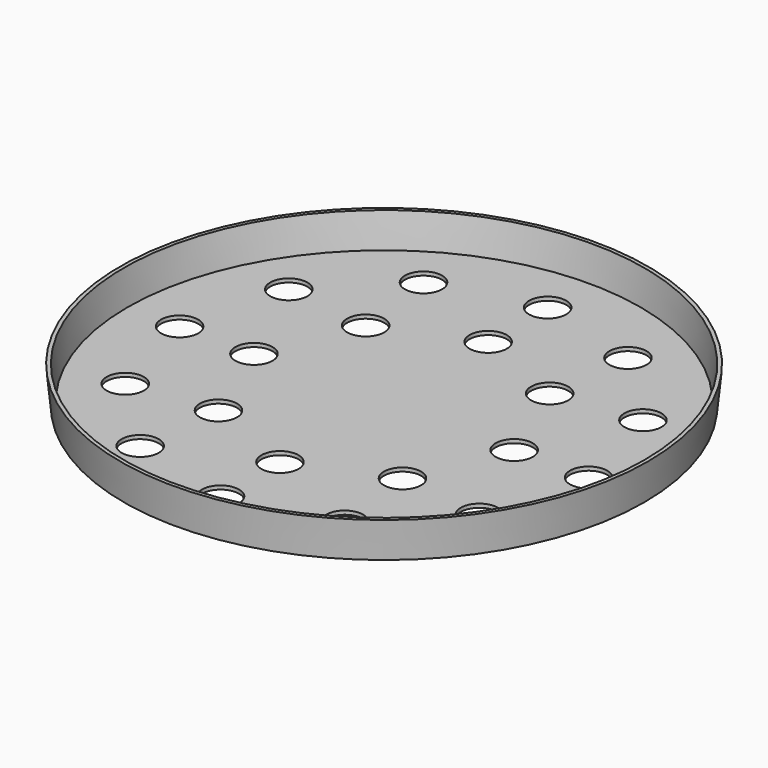
from build123d import *

# Parameters (mm, degrees)
SKETCH008_R      = 5
EXTRUDE002_DEPTH = 10


with BuildPart() as extrude002:
    # Sketch008 (on Face5 of Cut002) → Extrude002 (new body)
    with BuildSketch(Plane.XY.offset(1)):
        with Locations((35, 0)):
            Circle(SKETCH008_R)
        with Locations((0, 35)):
            Circle(SKETCH008_R)
        with Locations((-35, 0)):
            Circle(SKETCH008_R)
        with Locations((0, -35)):
            Circle(SKETCH008_R)
        with Locations((0, 55)):
            Circle(SKETCH008_R)
        with Locations((55, 0)):
            Circle(SKETCH008_R)
        with Locations((0, -55)):
            Circle(SKETCH008_R)
        with Locations((-55, 0)):
            Circle(SKETCH008_R)
        with Locations((-24.748737, 24.748737)):
            Circle(SKETCH008_R)
        with Locations((-24.748737, -24.748737)):
            Circle(SKETCH008_R)
        with Locations((24.748737, -24.748737)):
            Circle(SKETCH008_R)
        with Locations((24.748737, 24.748737)):
            Circle(SKETCH008_R)
        with Locations((-47.631397, 27.5)):
            Circle(SKETCH008_R)
        with Locations((-27.5, 47.631397)):
            Circle(SKETCH008_R)
        with Locations((27.5, 47.631397)):
            Circle(SKETCH008_R)
        with Locations((47.631397, 27.5)):
            Circle(SKETCH008_R)
        with Locations((47.631397, -27.5)):
            Circle(SKETCH008_R)
        with Locations((27.5, -47.631397)):
            Circle(SKETCH008_R)
        with Locations((-27.5, -47.631397)):
            Circle(SKETCH008_R)
        with Locations((-47.631397, -27.5)):
            Circle(SKETCH008_R)
    extrude(amount=-EXTRUDE002_DEPTH)


with BuildPart() as cone003:
    # Cone003 → Cone003 (revolve)
    with BuildSketch(Plane(origin=(0, 0, 1), x_dir=(1, 0, 0), z_dir=(0, -1, 0))):
        Polygon((0, 0), (69, 0), (70, 9), (0, 9), align=None)
    revolve(axis=Axis((0, 0, 1), (0, 0, 1)))


with BuildPart() as simple_bottom:
    # Cone002 → Cone002 (revolve)
    with BuildSketch(Plane.XZ):
        Polygon((0, 0), (70, 0), (71, 10), (0, 10), align=None)
    revolve(axis=Axis((0, 0, 0), (0, 0, 1)))

    # Cut002: cut Cone003
    add(cone003.part, mode=Mode.SUBTRACT)

    # Cut003: cut Extrude002
    add(extrude002.part, mode=Mode.SUBTRACT)


solid = simple_bottom.part
